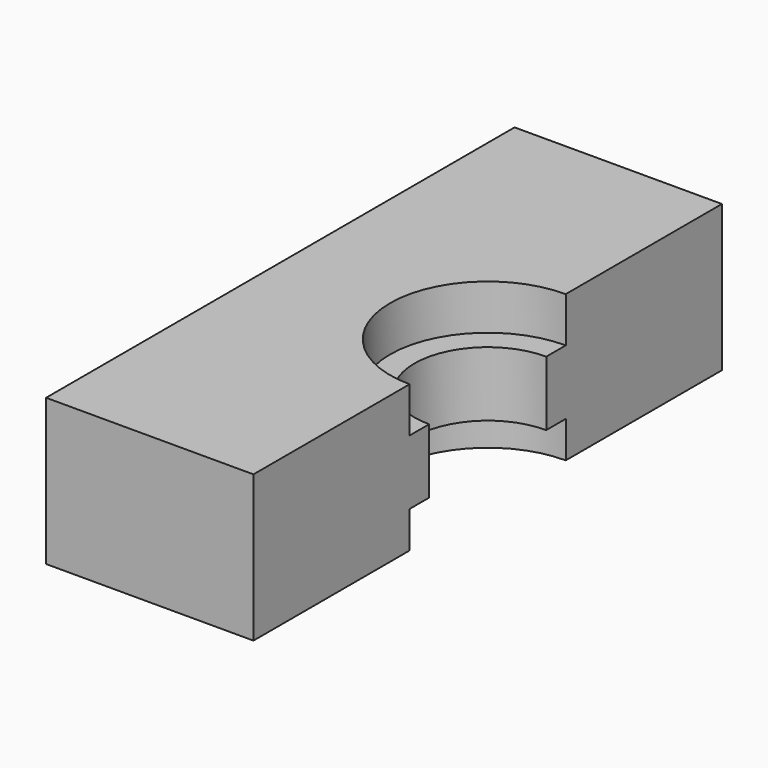
from build123d import *

# Parameters (mm, degrees)
PAD_DEPTH       = 6
POCKET_DEPTH    = 3.7
POCKET001_DEPTH = 3


with BuildPart() as part:
    # Sketch → Pad (new body, symmetric)
    with BuildSketch(Plane.XY):
        with BuildLine():
            Line((8.5, 24), (-8.5, 24))
            Line((-8.5, 24), (-8.5, -24))
            Line((-8.5, -24), (8.500003, -24))
            Line((8.500003, -24), (8.500003, -6))
            ThreePointArc((8.5, 6), (2.500003, -1e-06), (8.500003, -6))
            Line((8.5, 24), (8.5, 6))
        make_face()
    extrude(amount=PAD_DEPTH, both=True)

    # Sketch001 → Pocket (cut)
    with BuildSketch(Plane.XY.offset(6)):
        with BuildLine():
            ThreePointArc((8.5, 8), (0.499974, 1.3e-05), (8.499974, -8))
            Line((24.499948, -8), (8.499974, -8))
            Line((24.499948, 7.999948), (24.499948, -8))
            Line((8.5, 8), (24.499948, 7.999948))
        make_face()
    extrude(amount=-POCKET_DEPTH, mode=Mode.SUBTRACT)

    # Sketch002 → Pocket001 (cut)
    with BuildSketch(Plane(origin=(0, 0, -6), x_dir=(1, 0, 0), z_dir=(0, 0, -1))):
        with BuildLine():
            ThreePointArc((8.5, 8), (0.499986, 7e-06), (8.499985, -8))
            Line((24.499971, -8), (8.499985, -8))
            Line((24.499971, 7.999971), (24.499971, -8))
            Line((8.5, 8), (24.499971, 7.999971))
        make_face()
    extrude(amount=-POCKET001_DEPTH, mode=Mode.SUBTRACT)


solid = part.part
